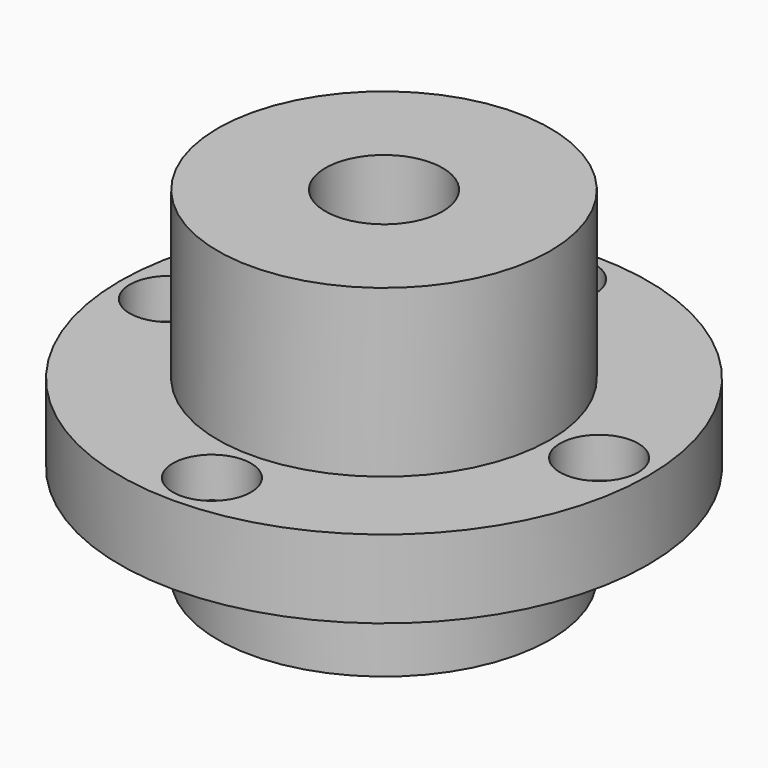
from build123d import *

# Parameters (mm, degrees)
F0_R           = 17
F0_R_2         = 6
F1_DEPTH       = 17
F2_R           = 27
F3_DEPTH       = 8
F4_R           = 17
F4_R_2         = 6
F5_DEPTH       = 10
F7_D           = 4.5
F7_CBORE_D     = 8
F7_CBORE_DEPTH = 4.1


with BuildPart() as f1:
    # F0 (on Top) → F1 (new body)
    with BuildSketch(Plane.XY):
        Circle(F0_R)
        Circle(F0_R_2, mode=Mode.SUBTRACT)
    extrude(amount=-F1_DEPTH)

    # F2 (on face) → F3 (join)
    with BuildSketch(Plane(origin=(0, 0, -17), x_dir=(1, 0, 0), z_dir=(0, 0, -1))):
        Circle(F2_R)
    extrude(amount=F3_DEPTH)

    # F4 (on face) → F5 (join)
    with BuildSketch(Plane(origin=(0, 0, -25), x_dir=(1, 0, 0), z_dir=(0, 0, -1))):
        Circle(F4_R)
        Circle(F4_R_2, mode=Mode.SUBTRACT)
    extrude(amount=F5_DEPTH)

    # F7 (through all)
    with Locations(Plane.XY.offset(-17)):
        with Locations((0, 22), (-22, 0), (0, -22), (22, 0)):
            CounterBoreHole(F7_D / 2, F7_CBORE_D / 2, F7_CBORE_DEPTH)


solid = f1.part
